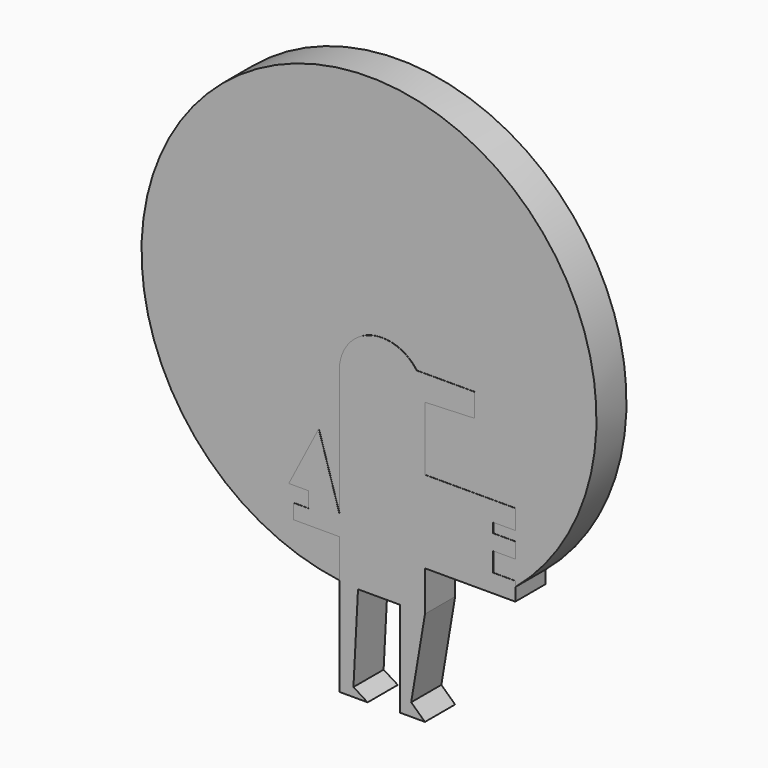
from build123d import *

# Parameters (mm, degrees)
F1_DEPTH = 25.4
F3_DEPTH = 25.2600312233


with BuildPart() as f1:
    # F0 (on Front) → F1 (new body)
    with BuildSketch(Plane.XZ):
        Polygon((28.8711190224, 19.7296105325), (28.8711190224, 62.7946555614), (-28.8711190224, 62.7946555614), (-28.8711190224, -21.6803327203), (-28.8711190224, -35.6886684895), (28.8711190224, -35.6886684895), align=None)
        with BuildLine():
            Line((-28.8711190224, 62.7946555614), (28.8711190224, 62.7946555614))
            ThreePointArc((28.8711190224, 62.7946555614), (27.4521603023, 71.7344770551), (23.3347622032, 79.7955492593))
            ThreePointArc((23.3347622032, 79.7955492593), (-8.9398214937, 90.2468158638), (-28.8711190224, 62.7946555614))
        make_face()
        with BuildLine():
            ThreePointArc((23.3347622032, 79.7955492593), (27.4521603023, 71.7344770551), (28.8711190224, 62.7946555614))
            Line((28.8711190224, 62.7946555614), (62.2528098973, 64.1079097986))
            Line((62.2528098973, 64.1079097986), (62.2528098973, 79.7955492593))
            Line((62.2528098973, 79.7955492593), (23.3347622032, 79.7955492593))
        make_face()
        Polygon((74.5094120502, 19.7296105325), (28.8711190224, 19.7296105325), (28.8711190224, -35.6886684895), (89.7200107574, -35.6886684895), (89.7200107574, -23.3990810812), (74.8348683119, -23.3990810812), (74.8348683119, -10.4444716126), (89.7200107574, -10.4444716126), (89.7200107574, 0), (74.8348683119, 0), (74.8348683119, 6.5229041502), (89.7200107574, 6.5229041502), (89.7200107574, 19.7296105325), align=None)
        Polygon((-28.8711190224, -35.6886684895), (-28.8711190224, -21.6803327203), (-42.6678210497, 23.781247437), (-62.8544837236, -15.207156539), (-49.6445633471, -15.207156539), (-49.6445633471, -25.6738718599), (-59.5784634352, -25.6738718599), (-59.5784634352, -35.6886684895), align=None)
        Polygon((28.8711190224, -62.7946555614), (28.8711190224, -35.6886684895), (-28.8711190224, -35.6886684895), (-28.8711190224, -62.7946555614), (-16.2400081754, -62.7946555614), (12.0457587764, -62.7946555614), align=None)
        Polygon((19.5835158229, -118.1614845991), (28.8711190224, -62.7946555614), (12.0457587764, -62.7946555614), (12.0457587764, -126.8014013767), (28.8711190224, -126.8014013767), align=None)
        Polygon((-16.2400081754, -62.7946555614), (-28.8711190224, -62.7946555614), (-28.8711190224, -115.8453673124), (-19.3075612187, -121.8000352383), align=None)
        Polygon((-19.3075612187, -121.8000352383), (-28.8711190224, -115.8453673124), (-28.8711190224, -127.7547031641), (-9.7440034151, -127.7547031641), align=None)
        with BuildLine():
            Line((-28.8711190224, 62.7946555614), (28.8711190224, 62.7946555614))
            ThreePointArc((28.8711190224, 62.7946555614), (27.4521603023, 71.7344770551), (23.3347622032, 79.7955492593))
            ThreePointArc((23.3347622032, 79.7955492593), (-8.9398214937, 90.2468158638), (-28.8711190224, 62.7946555614))
        make_face()
    extrude(amount=F1_DEPTH)

    # F2 (on face) → F3 (join)
    with BuildSketch(Plane(origin=(0, 0, 0), x_dir=(-1, 0, 0), z_dir=(0, 1, 0))):
        with BuildLine():
            ThreePointArc((28.8711190224, -61.7056259644), (124.1382439979, -10.8280309146), (162.1938628718, 90.2468158638))
            ThreePointArc((162.1938628718, 90.2468158638), (-55.7393219165, 229.1835266585), (-89.7200107575, -27.0265344717))
            Line((-89.7200107574, -27.0265344717), (-89.7200107574, -23.3990810812))
            Line((-89.7200107574, -23.3990810812), (-74.8348683119, -23.3990810812))
            Line((-74.8348683119, -23.3990810812), (-74.8348683119, -10.4444716126))
            Line((-74.8348683119, -10.4444716126), (-89.7200107574, -10.4444716126))
            Line((-89.7200107574, -10.4444716126), (-89.7200107574, 0))
            Line((-89.7200107574, 0), (-74.8348683119, 0))
            Line((-74.8348683119, 0), (-74.8348683119, 6.5229041502))
            Line((-74.8348683119, 6.5229041502), (-89.7200107574, 6.5229041502))
            Line((-89.7200107574, 6.5229041502), (-89.7200107574, 19.7296105325))
            Line((-89.7200107574, 19.7296105325), (-28.8711190224, 19.7296105325))
            Line((-28.8711190224, 19.7296105325), (-28.8711190224, 62.7946555614))
            Line((-28.8711190224, 62.7946555614), (-62.2528098973, 64.1079097986))
            Line((-62.2528098973, 64.1079097986), (-62.2528098973, 79.7955492593))
            Line((-62.2528098973, 79.7955492593), (-23.3347622032, 79.7955492593))
            ThreePointArc((-23.3347622032, 79.7955492593), (8.9398214937, 90.2468158638), (28.8711190224, 62.7946555614))
            Line((28.8711190224, 62.7946555614), (28.8711190224, -21.6803327203))
            Line((28.8711190224, -21.6803327203), (42.6678210497, 23.781247437))
            Line((42.6678210497, 23.781247437), (62.8544837236, -15.207156539))
            Line((62.8544837236, -15.207156539), (49.6445633471, -15.207156539))
            Line((49.6445633471, -15.207156539), (49.6445633471, -25.6738718599))
            Line((49.6445633471, -25.6738718599), (59.5784634352, -25.6738718599))
            Line((59.5784634352, -25.6738718599), (59.5784634352, -35.6886684895))
            Line((59.5784634352, -35.6886684895), (28.8711190224, -35.6886684895))
            Line((28.8711190224, -35.6886684895), (28.8711190224, -61.7056259644))
        make_face()
    extrude(amount=-F3_DEPTH)


solid = f1.part
